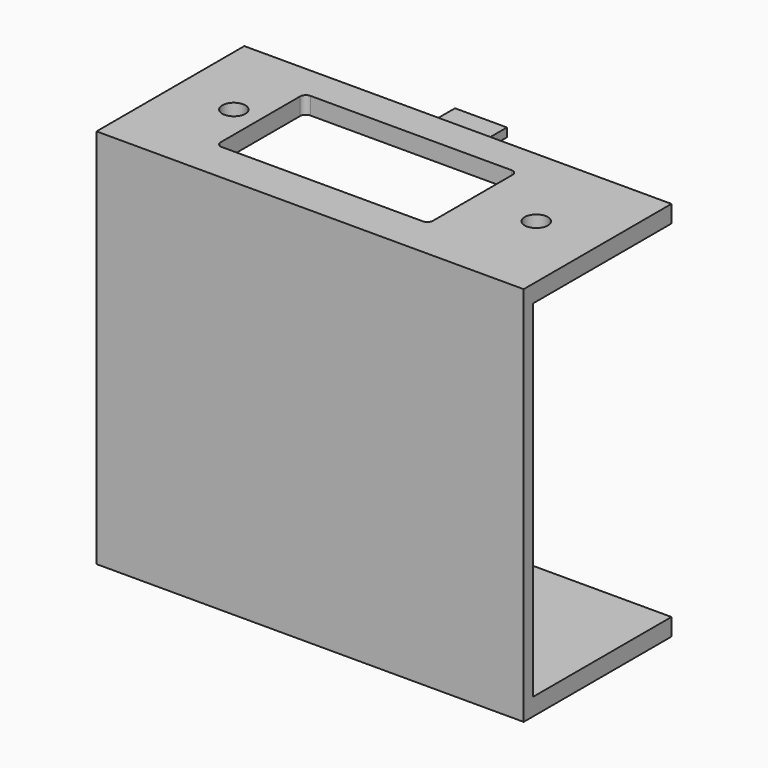
from build123d import *

# Parameters (mm, degrees)
F0_W      = 74
F0_H      = 32
F1_DEPTH  = 3
F2_W      = 36.8
F2_H      = 19.2
F3_DEPTH  = 3
F4_R      = 1
F5_R      = 2
F6_DEPTH  = 25
F7_W      = 9
F7_H      = 1.5
F8_DEPTH  = 5
F9_W      = 74
F9_H      = 2
F10_DEPTH = 60
F11_W     = 74
F11_H     = 32
F12_DEPTH = 3
F13_W     = 9
F13_H     = 1.5
F14_DEPTH = 5


with BuildPart() as f1:
    # F0 (on Top) → F1 (new body)
    with BuildSketch(Plane.XY):
        Rectangle(F0_W, F0_H)
    extrude(amount=F1_DEPTH)

    # F2 (on face) → F3 (cut, through all)
    with BuildSketch(Plane.XY.offset(3)):
        with Locations((-3.5, 0.6)):
            Rectangle(F2_W, F2_H)
    extrude(amount=-F3_DEPTH, mode=Mode.SUBTRACT)

    # F4
    f4_edges = [f1.edges().sort_by_distance(p)[0] for p in [
        (-21.9, 10.2, 1.5),
        (-21.9, -9, 1.5),
        (14.9, 10.2, 1.5),
        (14.9, -9, 1.5),
    ]]
    fillet(f4_edges, radius=F4_R)

    # F5 (on face) → F6 (cut)
    with BuildSketch(Plane.XY.offset(3)):
        with Locations((-26.5, 0.6)):
            Circle(F5_R)
        with Locations((25.9, 0.6)):
            Circle(F5_R)
    extrude(amount=-F6_DEPTH, mode=Mode.SUBTRACT)

    # F7 (on face) → F8 (join)
    with BuildSketch(Plane(origin=(0, 16, 0), x_dir=(-1, 0, 0), z_dir=(0, 1, 0))):
        with Locations((0, 1.305378)):
            Rectangle(F7_W, F7_H)
    extrude(amount=F8_DEPTH)

    # F9 (on face) → F10 (join)
    with BuildSketch(Plane(origin=(0, 0, 0), x_dir=(1, 0, 0), z_dir=(0, 0, -1))):
        with Locations((0, 15)):
            Rectangle(F9_W, F9_H)
    extrude(amount=F10_DEPTH)

    # F11 (on face) → F12 (join)
    with BuildSketch(Plane(origin=(0, 0, -60), x_dir=(1, 0, 0), z_dir=(0, 0, -1))):
        Rectangle(F11_W, F11_H)
    extrude(amount=F12_DEPTH)

    # F13 (on face) → F14 (join)
    with BuildSketch(Plane(origin=(0, 16, 0), x_dir=(-1, 0, 0), z_dir=(0, 1, 0))):
        with Locations((0, -63)):
            Rectangle(F13_W, F13_H)
    extrude(amount=F14_DEPTH)


solid = f1.part
